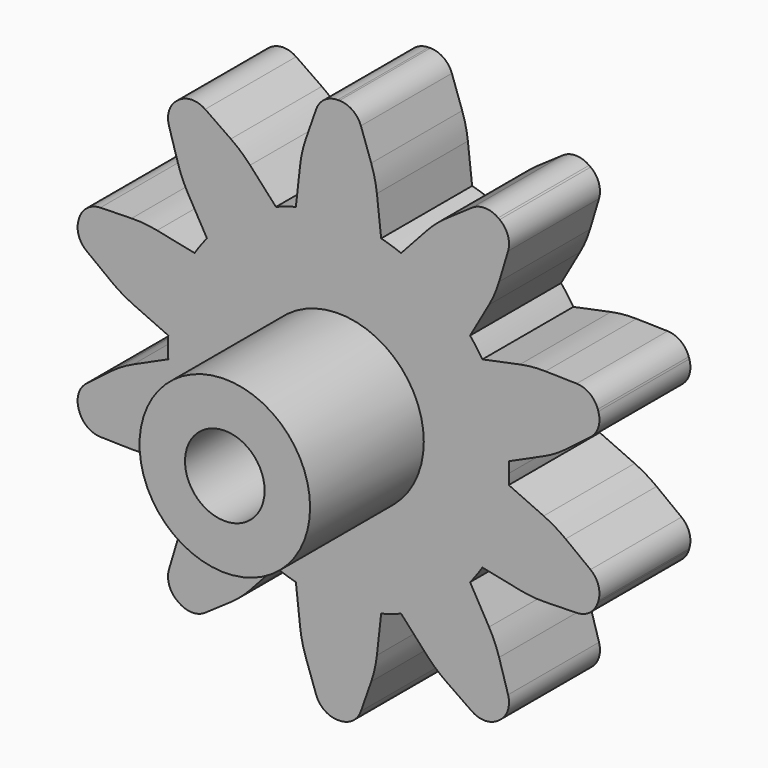
from build123d import *

# Parameters (mm, degrees)
F0_R     = 1.778
F1_DEPTH = 5.08
F2_R     = 3.81
F2_R_2   = 1.778
F3_DEPTH = 6.35
F4_R     = 5.08
F5_R     = 1.016


with BuildPart() as f1:
    # F0 (on Front) → F1 (new body)
    with BuildSketch(Plane.XZ):
        with BuildLine():
            ThreePointArc((7.605604, -0.468175), (7.6164, -0.234198), (7.62, 0))
            ThreePointArc((7.62, 0), (7.6164, 0.234198), (7.605604, 0.468175))
            ThreePointArc((7.605604, 0.468175), (7.247051, 2.354709), (6.428249, 4.0917))
            ThreePointArc((6.428249, 4.0917), (6.164709, 4.478924), (5.877877, 4.849223))
            ThreePointArc((5.877877, 4.849223), (4.478924, 6.164709), (2.795522, 7.088685))
            ThreePointArc((2.795522, 7.088685), (2.354709, 7.247051), (1.905, 7.378033))
            ThreePointArc((1.905, 7.378033), (0, 7.62), (-1.905, 7.378033))
            ThreePointArc((-1.905, 7.378033), (-2.354709, 7.247051), (-2.795522, 7.088685))
            ThreePointArc((-2.795522, 7.088685), (-4.478924, 6.164709), (-5.877877, 4.849223))
            ThreePointArc((-5.877877, 4.849223), (-6.164709, 4.478924), (-6.428249, 4.0917))
            ThreePointArc((-6.428249, 4.0917), (-7.247051, 2.354709), (-7.605604, 0.468175))
            ThreePointArc((-7.605604, 0.468175), (-7.62, 0), (-7.605604, -0.468175))
            ThreePointArc((-7.605604, -0.468175), (-7.247051, -2.354709), (-6.428249, -4.0917))
            ThreePointArc((-6.428249, -4.0917), (-6.164709, -4.478924), (-5.877877, -4.849223))
            ThreePointArc((-5.877877, -4.849223), (-4.478924, -6.164709), (-2.795522, -7.088685))
            ThreePointArc((-2.795522, -7.088685), (-2.354709, -7.247051), (-1.905, -7.378033))
            ThreePointArc((-1.905, -7.378033), (0, -7.62), (1.905, -7.378033))
            ThreePointArc((1.905, -7.378033), (2.354709, -7.247051), (2.795522, -7.088685))
            ThreePointArc((2.795522, -7.088685), (4.478924, -6.164709), (5.877877, -4.849223))
            ThreePointArc((5.877877, -4.849223), (6.164709, -4.478924), (6.428249, -4.0917))
            ThreePointArc((6.428249, -4.0917), (7.247051, -2.354709), (7.605604, -0.468175))
        make_face()
        Circle(F0_R, mode=Mode.SUBTRACT)
        with BuildLine():
            ThreePointArc((6.428249, 4.0917), (7.247051, 2.354709), (7.605604, 0.468175))
            Line((7.605604, 0.468175), (9.689785, 1.412438))
            Line((9.689785, 1.412438), (11.830752, 3.04283))
            Line((11.830752, 3.04283), (11.35981, 4.49224))
            Line((11.35981, 4.49224), (8.66941, 4.552826))
            Line((8.66941, 4.552826), (6.428249, 4.0917))
        make_face()
        with BuildLine():
            Line((9.689785, -1.412438), (7.605604, -0.468175))
            ThreePointArc((7.605604, -0.468175), (7.247051, -2.354709), (6.428249, -4.0917))
            Line((6.428249, -4.0917), (8.66941, -4.552826))
            Line((8.66941, -4.552826), (11.35981, -4.49224))
            Line((11.35981, -4.49224), (11.830752, -3.04283))
            Line((11.830752, -3.04283), (9.689785, -1.412438))
        make_face()
        with BuildLine():
            ThreePointArc((2.795522, 7.088685), (4.478924, 6.164709), (5.877877, 4.849223))
            Line((5.877877, 4.849223), (7.00899, 6.838199))
            Line((7.00899, 6.838199), (7.782749, 9.415643))
            Line((7.782749, 9.415643), (6.549807, 10.311428))
            Line((6.549807, 10.311428), (4.337616, 8.779065))
            Line((4.337616, 8.779065), (2.795522, 7.088685))
        make_face()
        with BuildLine():
            Line((7.00899, -6.838199), (5.877877, -4.849223))
            ThreePointArc((5.877877, -4.849223), (4.478924, -6.164709), (2.795522, -7.088685))
            Line((2.795522, -7.088685), (4.337616, -8.779065))
            Line((4.337616, -8.779065), (6.549807, -10.311428))
            Line((6.549807, -10.311428), (7.782749, -9.415643))
            Line((7.782749, -9.415643), (7.00899, -6.838199))
        make_face()
        with BuildLine():
            ThreePointArc((-1.905, 7.378033), (0, 7.62), (1.905, 7.378033))
            Line((1.905, 7.378033), (1.651, 9.652))
            Line((1.651, 9.652), (0.762, 12.192))
            Line((0.762, 12.192), (-0.762, 12.192))
            Line((-0.762, 12.192), (-1.651, 9.652))
            Line((-1.651, 9.652), (-1.905, 7.378033))
        make_face()
        with BuildLine():
            Line((1.651, -9.652), (1.905, -7.378033))
            ThreePointArc((1.905, -7.378033), (0, -7.62), (-1.905, -7.378033))
            Line((-1.905, -7.378033), (-1.651, -9.652))
            Line((-1.651, -9.652), (-0.762, -12.192))
            Line((-0.762, -12.192), (0.762, -12.192))
            Line((0.762, -12.192), (1.651, -9.652))
        make_face()
        with BuildLine():
            ThreePointArc((-5.877877, 4.849223), (-4.478924, 6.164709), (-2.795522, 7.088685))
            Line((-2.795522, 7.088685), (-4.337616, 8.779065))
            Line((-4.337616, 8.779065), (-6.549807, 10.311428))
            Line((-6.549807, 10.311428), (-7.782749, 9.415643))
            Line((-7.782749, 9.415643), (-7.00899, 6.838199))
            Line((-7.00899, 6.838199), (-5.877877, 4.849223))
        make_face()
        with BuildLine():
            Line((-4.337616, -8.779065), (-2.795522, -7.088685))
            ThreePointArc((-2.795522, -7.088685), (-4.478924, -6.164709), (-5.877877, -4.849223))
            Line((-5.877877, -4.849223), (-7.00899, -6.838199))
            Line((-7.00899, -6.838199), (-7.782749, -9.415643))
            Line((-7.782749, -9.415643), (-6.549807, -10.311428))
            Line((-6.549807, -10.311428), (-4.337616, -8.779065))
        make_face()
        with BuildLine():
            ThreePointArc((-7.605604, 0.468175), (-7.247051, 2.354709), (-6.428249, 4.0917))
            Line((-6.428249, 4.0917), (-8.66941, 4.552826))
            Line((-8.66941, 4.552826), (-11.35981, 4.49224))
            Line((-11.35981, 4.49224), (-11.830752, 3.04283))
            Line((-11.830752, 3.04283), (-9.689785, 1.412438))
            Line((-9.689785, 1.412438), (-7.605604, 0.468175))
        make_face()
        with BuildLine():
            Line((-8.66941, -4.552826), (-6.428249, -4.0917))
            ThreePointArc((-6.428249, -4.0917), (-7.247051, -2.354709), (-7.605604, -0.468175))
            Line((-7.605604, -0.468175), (-9.689785, -1.412438))
            Line((-9.689785, -1.412438), (-11.830752, -3.04283))
            Line((-11.830752, -3.04283), (-11.35981, -4.49224))
            Line((-11.35981, -4.49224), (-8.66941, -4.552826))
        make_face()
    extrude(amount=F1_DEPTH)

    # F2 (on face) → F3 (join)
    with BuildSketch(Plane.XZ.offset(5.08)):
        Circle(F2_R)
        Circle(F2_R_2, mode=Mode.SUBTRACT)
    extrude(amount=F3_DEPTH)

    # F4
    f4_edges = [f1.edges().sort_by_distance(p)[0] for p in [
        (7.00899, -2.54, 6.838199),
        (4.337616, -2.54, 8.779065),
        (1.651, -2.54, 9.652),
        (-4.337616, -2.54, 8.779065),
        (-8.66941, -2.54, 4.552826),
        (-9.689785, -2.54, -1.412438),
        (-7.00899, -2.54, -6.838199),
        (-1.651, -2.54, -9.652),
        (4.337616, -2.54, -8.779065),
        (8.66941, -2.54, -4.552826),
        (9.689785, -2.54, 1.412438),
        (9.689785, -2.54, -1.412438),
        (8.66941, -2.54, 4.552826),
        (-1.651, -2.54, 9.652),
        (-7.00899, -2.54, 6.838199),
        (-9.689785, -2.54, 1.412438),
        (-8.66941, -2.54, -4.552826),
        (-4.337616, -2.54, -8.779065),
        (1.651, -2.54, -9.652),
        (7.00899, -2.54, -6.838199),
    ]]
    fillet(f4_edges, radius=F4_R)

    # F5
    f5_edges = [f1.edges().sort_by_distance(p)[0] for p in [
        (0.762, -2.54, 12.192),
        (-0.762, -2.54, 12.192),
        (-6.549807, -2.54, 10.311428),
        (-7.782749, -2.54, 9.415643),
        (-11.35981, -2.54, 4.49224),
        (6.549807, -2.54, 10.311428),
        (7.782749, -2.54, 9.415643),
        (11.35981, -2.54, 4.49224),
        (-11.830752, -2.54, 3.04283),
        (-11.830752, -2.54, -3.04283),
        (-11.35981, -2.54, -4.49224),
        (-7.782749, -2.54, -9.415643),
        (-6.549807, -2.54, -10.311428),
        (-0.762, -2.54, -12.192),
        (0.762, -2.54, -12.192),
        (6.549807, -2.54, -10.311428),
        (7.782749, -2.54, -9.415643),
        (11.830752, -2.54, -3.04283),
        (11.35981, -2.54, -4.49224),
        (11.830752, -2.54, 3.04283),
    ]]
    fillet(f5_edges, radius=F5_R)


solid = f1.part
